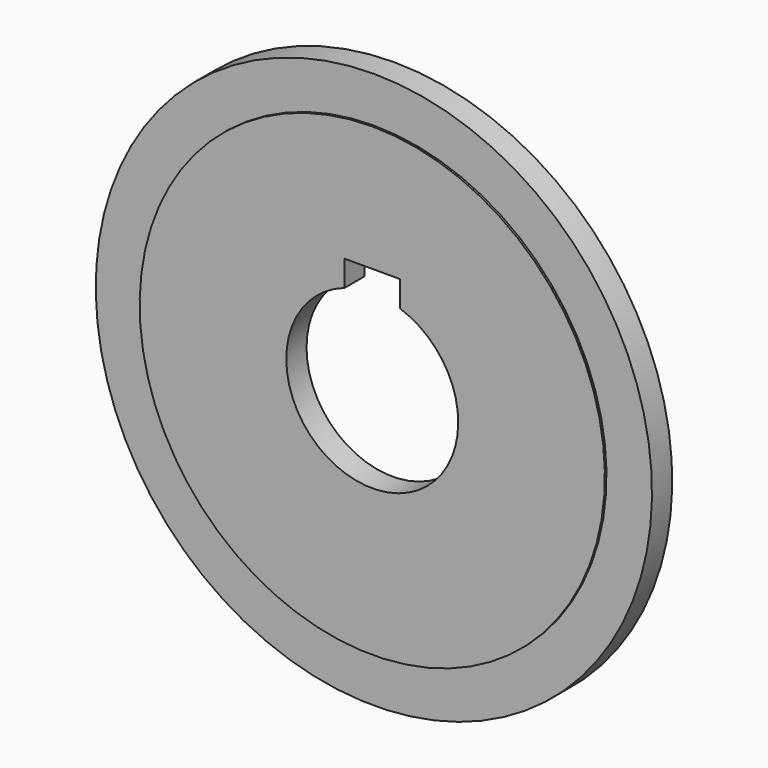
from build123d import *

# Parameters (mm, degrees)
F3_DEPTH = 2.701


with BuildPart() as f1:
    # F0 (on Right) → F1 (revolve)
    with BuildSketch(Plane.YZ):
        Polygon((0, 23), (0, 8.5), (2.5, 8.5), (2.5, 23), (2.7, 23), (2.7, 27.5), (0.2, 27.5), (0.2, 23), align=None)
    revolve(axis=Axis((0, 1.25, 0), (0, 1, 0)))

    # F2 (on Front) → F3 (cut, through all)
    with BuildSketch(Plane.XZ):
        with BuildLine():
            Line((2.75, 10.6), (-2.75, 10.6))
            Line((-2.75, 10.6), (-2.75, 8.042854))
            ThreePointArc((-2.75, 8.042854), (0, 8.5), (2.75, 8.042854))
            Line((2.75, 8.042854), (2.75, 10.6))
        make_face()
    extrude(amount=-F3_DEPTH, mode=Mode.SUBTRACT)


solid = f1.part
